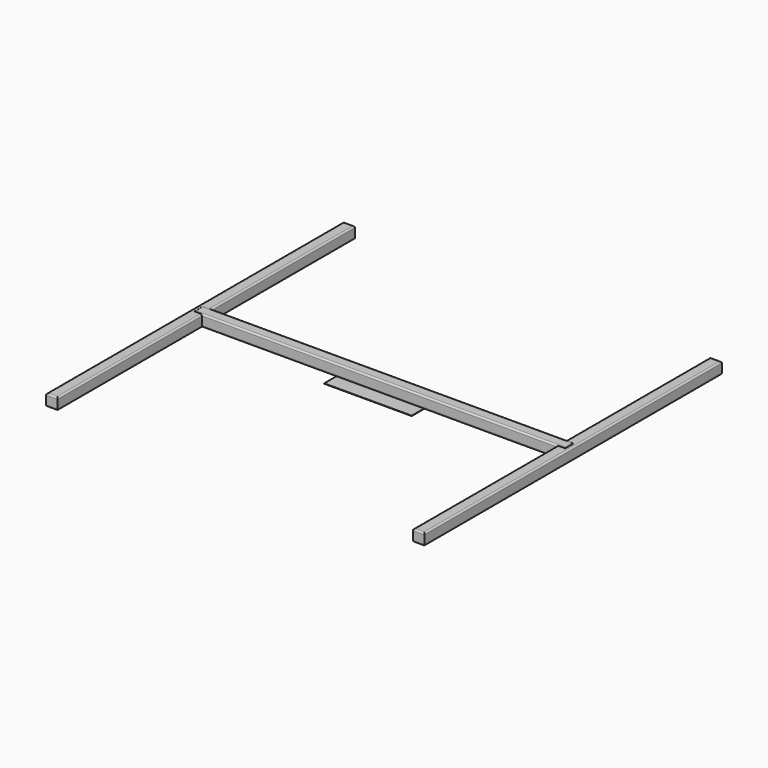
from build123d import *

# Parameters (mm, degrees)
F0_W     = 1219.2
F0_H     = 38.1
F1_DEPTH = 38.1
F2_R     = 5.08
F3_R     = 5.08
F4_W     = 287.014722
F4_H     = 132.251978
F5_DEPTH = 1.27
F6_W     = 38.1
F6_H     = 1219.2
F7_DEPTH = 38.1
F8_R     = 5.08


with BuildPart() as f1:
    # F0 (on Top) → F1 (new body)
    with BuildSketch(Plane.XY):
        Rectangle(F0_W, F0_H)
        Rectangle(F0_W, F0_H)
    extrude(amount=F1_DEPTH)

    # F2
    f2_edges = [f1.edges().sort_by_distance(p)[0] for p in [
        (-609.6, 0, 38.1),
        (0, -19.05, 38.1),
        (609.6, 0, 38.1),
        (0, 19.05, 38.1),
    ]]
    fillet(f2_edges, radius=F2_R)

    # F3
    f3_edges = [f1.edges().sort_by_distance(p)[0] for p in [
        (-609.6, 0, 0),
        (0, 19.05, 0),
        (0, -19.05, 0),
        (609.6, 0, 0),
    ]]
    fillet(f3_edges, radius=F3_R)

    # F4 (on Top) → F5 (join)
    with BuildSketch(Plane.XY):
        Rectangle(F4_W, F4_H)
    extrude(amount=-F5_DEPTH)


with BuildPart() as f7:
    # F6 (on face) → F7 (new body)
    with BuildSketch(Plane(origin=(0, 0, -1.27), x_dir=(1, 0, 0), z_dir=(0, 0, -1))):
        with Locations((-601.464927, 0)):
            Rectangle(F6_W, F6_H)
        with Locations((-601.464927, 0)):
            Rectangle(F6_W, F6_H)
        with Locations((601.089597, 0)):
            Rectangle(F6_W, F6_H)
    extrude(amount=-F7_DEPTH)

    # F8
    f8_edges = [f7.edges().sort_by_distance(p)[0] for p in [
        (-620.514927, 0, -1.27),
        (-582.414927, 0, -1.27),
        (-601.464927, -609.6, -1.27),
        (-601.464927, 609.6, -1.27),
        (601.089597, 609.6, -1.27),
        (582.039597, 0, -1.27),
        (620.139597, 0, -1.27),
        (601.089597, -609.6, -1.27),
        (-601.464927, -609.6, 36.83),
        (-582.414927, 0, 36.83),
        (-620.514927, 0, 36.83),
        (-601.464927, 609.6, 36.83),
        (601.089597, 609.6, 36.83),
        (620.139597, 0, 36.83),
        (582.039597, 0, 36.83),
        (601.089597, -609.6, 36.83),
    ]]
    fillet(f8_edges, radius=F8_R)


solid = Compound([f1.part, f7.part])
